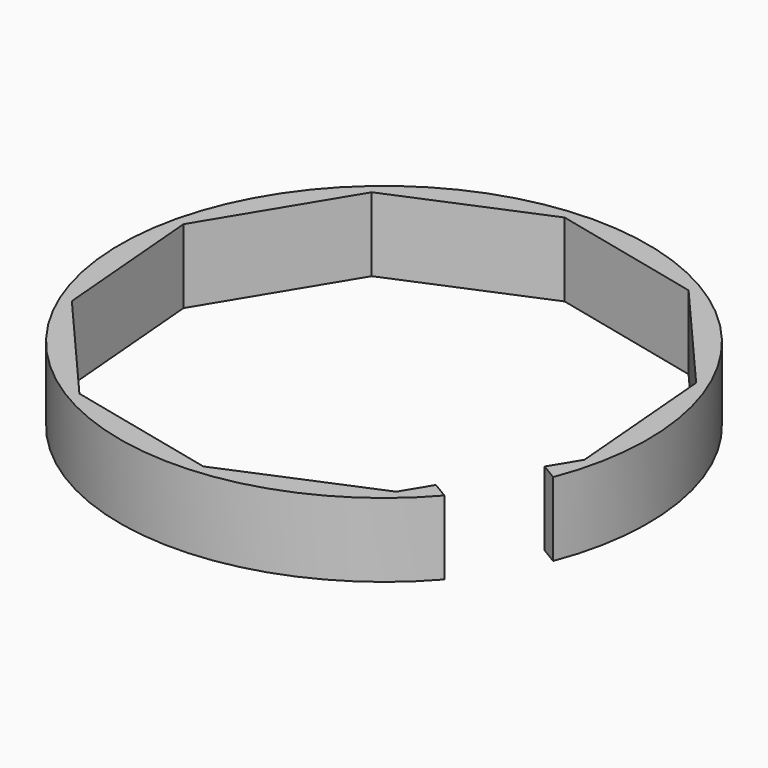
from build123d import *

# Parameters (mm, degrees)
F0_R     = 2540
F1_DEPTH = 711.1999988556
F2_W     = 870.3462406885
F2_H     = 711.1999988556
F3_DEPTH = 922.9071736336


with BuildPart() as f1:
    # F0 (on Top) → F1 (new body)
    with BuildSketch(Plane.XY):
        Circle(F0_R)
        Polygon((1594.0031338836, -1845.2502727731), (204.964727274, -2429.7703637532), (-1262.3632386594, -2086.2007606368), (-2247.5113535733, -945.773374313), (-2374.1865215234, 555.9072953437), (-1594.0031338836, 1845.2502727731), (-204.964727274, 2429.7703637532), (1262.3632386594, 2086.2007606368), (2247.5113535733, 945.773374313), (2374.1865215234, -555.9072953437), align=None, mode=Mode.SUBTRACT)
    extrude(amount=F1_DEPTH)

    # F2 (on face) → F3 (cut)
    with BuildSketch(Plane(origin=(1984.0948277035, -1200.5787840584, 0), x_dir=(-0.5177014594, -0.8555613356, 0), z_dir=(-0.8555613356, 0.5177014594, 0))):
        with Locations((0, 355.5999994278)):
            Rectangle(F2_W, F2_H)
    extrude(amount=-F3_DEPTH, mode=Mode.SUBTRACT)


solid = f1.part
